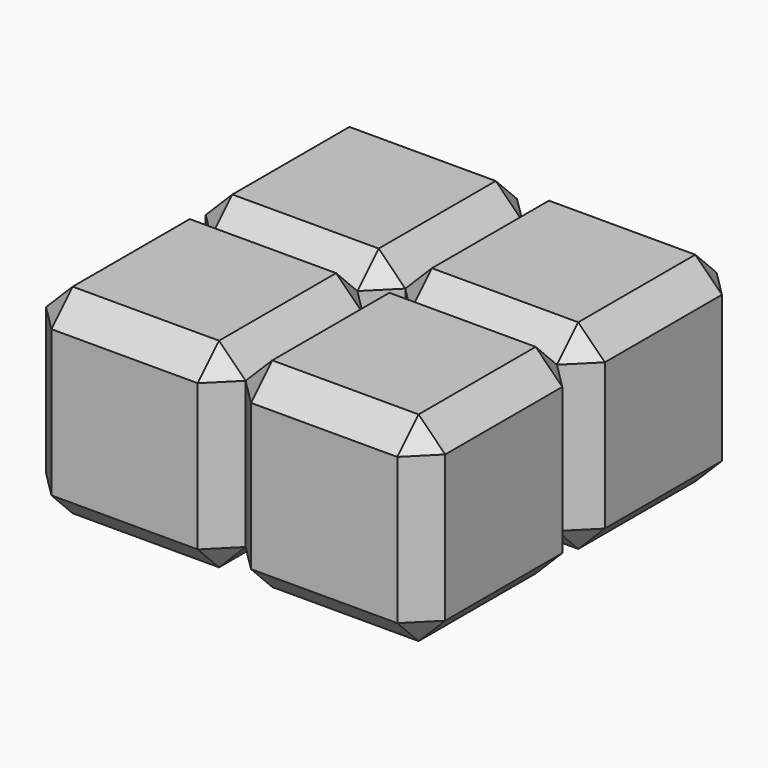
from build123d import *

# Parameters (mm, degrees)
F0_W     = 15
F0_H     = 15
F1_DEPTH = 15
F2_SIZE  = 2


with BuildPart() as f1:
    # F0 (on Front) → F1 (new body)
    with BuildSketch(Plane.XZ):
        Rectangle(F0_W, F0_H)
    extrude(amount=F1_DEPTH)

    # F2
    f2_edges = [f1.edges().sort_by_distance(p)[0] for p in [
        (7.5, -7.5, 7.5),
        (-7.5, -7.5, 7.5),
        (0, 0, 7.5),
        (0, -15, 7.5),
        (7.5, -15, 0),
        (-7.5, -15, 0),
        (0, -15, -7.5),
        (-7.5, -7.5, -7.5),
        (-7.5, 0, 0),
        (0, 0, -7.5),
        (7.5, -7.5, -7.5),
        (7.5, 0, 0),
    ]]
    chamfer(f2_edges, length=F2_SIZE)


with BuildPart() as f3_1:
    # F3: copy of F1
    add(f1.part.moved(Location((15, 0, 0))))


with BuildPart() as f4_1:
    # F4: copy of F3_1
    add(f3_1.part.moved(Location((0, 15, 0))))


with BuildPart() as f5_1:
    # F5: copy of F1
    add(f1.part.moved(Location((0, 15, 0))))


solid = Compound([f1.part, f3_1.part, f4_1.part, f5_1.part])
